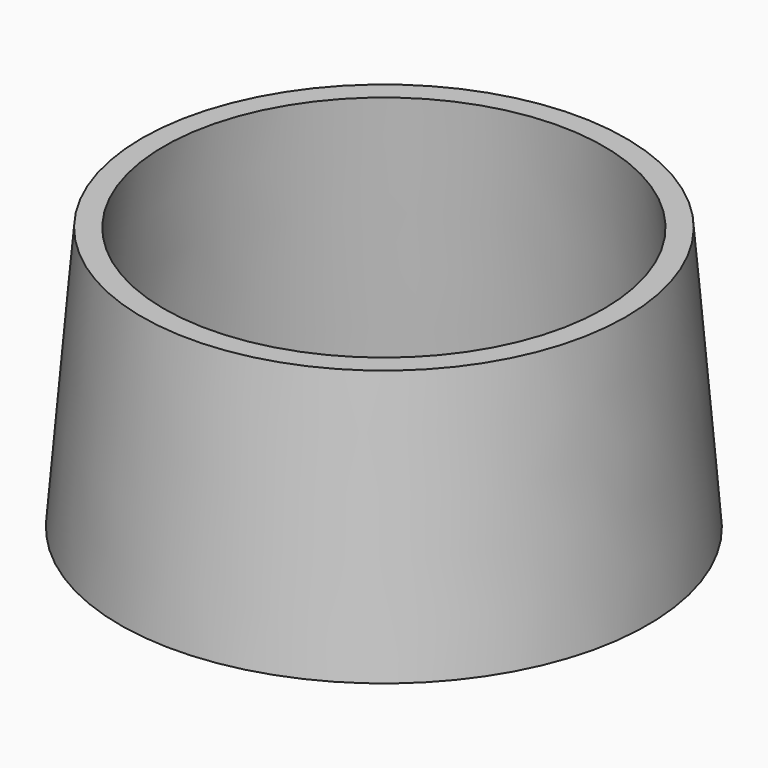
from build123d import *


with BuildPart() as f1:
    # F0 (on Front) → F1 (revolve)
    with BuildSketch(Plane.XZ):
        Polygon((-76.2, 0), (0, 0), (0, 76.2), (-69.85, 76.2), align=None)
    revolve(axis=Axis((0, 0, 38.1), (0, 0, 1)))

    # F2 (on Front) → F3 (revolve, cut)
    with BuildSketch(Plane.XZ):
        Polygon((0, 76.2), (0, 0), (69.85, 0), (63.5, 76.2), align=None)
    revolve(axis=Axis((0, 0, 38.1), (0, 0, 1)), mode=Mode.SUBTRACT)


solid = f1.part
